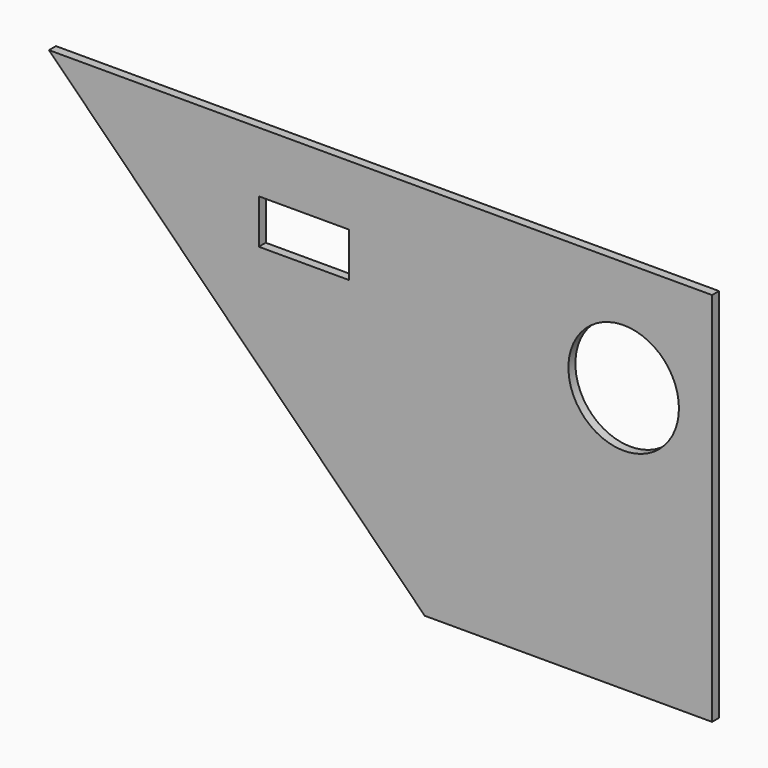
from build123d import *

# Parameters (mm, degrees)
F1_DEPTH = 0.5
F2_R     = 6.35
F3_DEPTH = 12.7
F4_W     = 10.370853
F4_H     = 5.103117
F5_DEPTH = 12.7


with BuildPart() as f1:
    # F0 (on Front) → F1 (new body, symmetric)
    with BuildSketch(Plane.XZ):
        Polygon((-43.18, 43.18), (0, 0), (33.02, 0), (33.02, 43.18), align=None)
    extrude(amount=F1_DEPTH, both=True)

    # F2 (on Front) → F3 (cut, symmetric)
    with BuildSketch(Plane.XZ):
        with Locations((22.86, 30.48)):
            Circle(F2_R)
    extrude(amount=F3_DEPTH, both=True, mode=Mode.SUBTRACT)

    # F4 (on Front) → F5 (cut, symmetric)
    with BuildSketch(Plane.XZ):
        with Locations((-13.880418, 33.682564)):
            Rectangle(F4_W, F4_H)
    extrude(amount=F5_DEPTH, both=True, mode=Mode.SUBTRACT)


solid = f1.part
